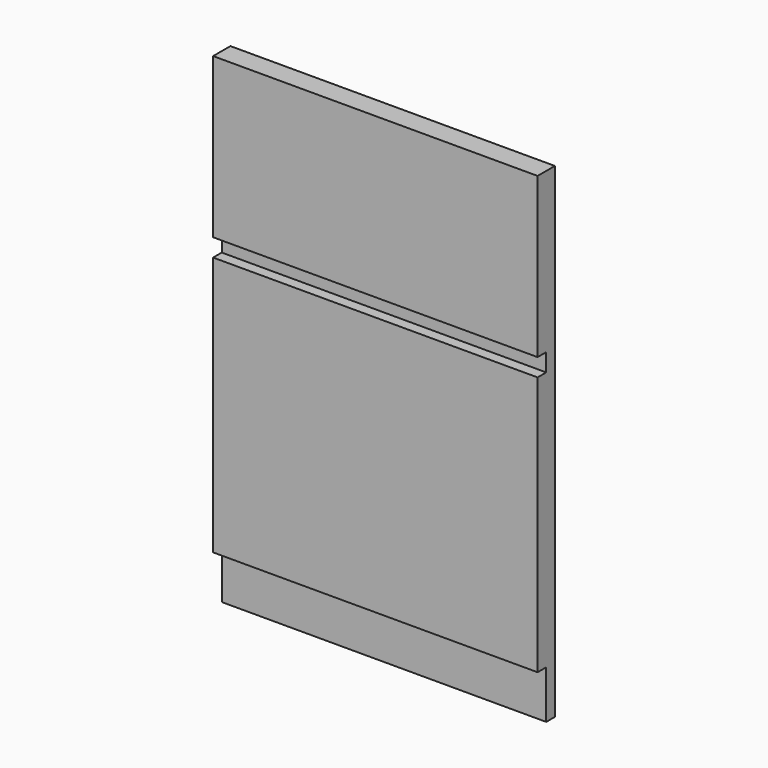
from build123d import *

# Parameters (mm, degrees)
F0_W     = 600
F0_H     = 897
F1_DEPTH = 20
F2_W     = 600
F2_H     = 295
F2_H_2   = 480
F3_DEPTH = 20


with BuildPart() as f1:
    # F0 (on Front) → F1 (new body)
    with BuildSketch(Plane.XZ):
        Rectangle(F0_W, F0_H)
    extrude(amount=F1_DEPTH)

    # F2 (on face) → F3 (join)
    with BuildSketch(Plane.XZ.offset(20)):
        with Locations((0, 301)):
            Rectangle(F2_W, F2_H)
        with Locations((0, -119.5)):
            Rectangle(F2_W, F2_H_2)
        with Locations((0, -119.5)):
            Rectangle(F2_W, F2_H_2)
    extrude(amount=F3_DEPTH)


solid = f1.part
